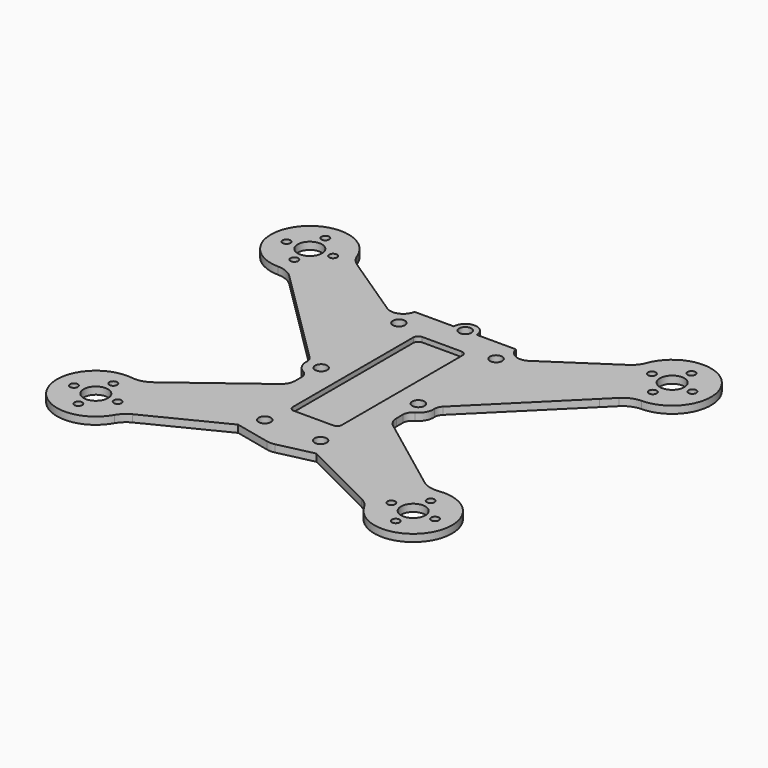
from build123d import *

# Parameters (mm, degrees)
F0_R     = 0.8
F0_R_2   = 2.5
F0_R_3   = 1.25
F1_DEPTH = 1.5
F3_DEPTH = 1


with BuildPart() as f1:
    # F0 (on Top) → F1 (new body)
    with BuildSketch(Plane.XY):
        with BuildLine():
            Line((-31.716832, 9.520675), (-13.730384, -8.327864))
            ThreePointArc((-13.730384, -8.327864), (-13.294515, -8.974629), (-13.139162, -9.738927))
            ThreePointArc((-13.139162, -9.738927), (-12.767146, -11.505125), (-11.486594, -12.777146))
            ThreePointArc((-11.486594, -12.777146), (-10.714692, -13.512731), (-10.430463, -14.540413))
            Line((-10.430463, -14.540413), (-10.430463, -16.13337))
            ThreePointArc((-10.430463, -16.13337), (-10.746412, -17.473471), (-11.62771, -18.531303))
            Line((-11.62771, -18.531303), (-15.493242, -21.437387))
            Line((-15.493242, -21.437387), (-27.909361, -30.771753))
            ThreePointArc((-27.909361, -30.771753), (-29.655032, -31.614116), (-31.58989, -31.729297))
            ThreePointArc((-31.58989, -31.729297), (-39.836032, -43.215069), (-25.70144, -43.582652))
            ThreePointArc((-25.70144, -43.582652), (-24.79371, -42.416415), (-23.584708, -41.566476))
            Line((-23.584708, -41.566476), (-8.058335, -33.788427))
            ThreePointArc((-8.058335, -33.788427), (-7.655382, -33.419748), (-7.506234, -32.894343))
            Line((-7.506234, -32.894343), (-7.506234, -32.096117))
            Line((-7.506234, -32.096117), (-0.518092, -33.32136))
            ThreePointArc((-0.518092, -33.32136), (0, -33.366435), (0.518092, -33.32136))
            Line((0.518092, -33.32136), (7.506234, -32.096117))
            Line((7.506234, -32.096117), (7.506234, -32.894343))
            ThreePointArc((7.506234, -32.894343), (7.655382, -33.419748), (8.058335, -33.788427))
            Line((8.058335, -33.788427), (23.584708, -41.566476))
            ThreePointArc((23.584708, -41.566476), (24.79371, -42.416415), (25.70144, -43.582652))
            ThreePointArc((25.70144, -43.582652), (39.836032, -43.215069), (31.58989, -31.729297))
            ThreePointArc((31.58989, -31.729297), (29.655032, -31.614116), (27.909361, -30.771753))
            Line((27.909361, -30.771753), (11.62771, -18.531303))
            ThreePointArc((11.62771, -18.531303), (10.746412, -17.473471), (10.430463, -16.13337))
            Line((10.430463, -16.13337), (10.430463, -14.540413))
            ThreePointArc((10.430463, -14.540413), (10.714692, -13.512731), (11.486594, -12.777146))
            ThreePointArc((11.486594, -12.777146), (12.767146, -11.505125), (13.139162, -9.738927))
            ThreePointArc((13.139162, -9.738927), (13.294515, -8.974629), (13.730384, -8.327864))
            Line((13.730384, -8.327864), (31.716832, 9.520675))
            Line((31.716832, 9.520675), (33.960373, 11.747013))
            ThreePointArc((33.960373, 11.747013), (35.545021, 12.807352), (37.411379, 13.197397))
            ThreePointArc((37.411379, 13.197397), (43.844593, 25.794573), (29.811857, 24.017664))
            ThreePointArc((29.811857, 24.017664), (29.04528, 22.667242), (27.901363, 21.617129))
            Line((27.901363, 21.617129), (24.304559, 19.22573))
            Line((24.304559, 19.22573), (14.596146, 12.77092))
            ThreePointArc((14.596146, 12.77092), (12.032551, 12.544056), (10.450405, 14.573909))
            Line((10.450405, 14.573909), (9.220249, 14.583025))
            Line((9.220249, 14.583025), (2.354764, 14.583025))
            ThreePointArc((2.354764, 14.583025), (0, 16.937789), (-2.354764, 14.583025))
            Line((-2.354764, 14.583025), (-9.220249, 14.583025))
            Line((-9.220249, 14.583025), (-10.450405, 14.573909))
            ThreePointArc((-10.450405, 14.573909), (-12.032551, 12.544056), (-14.596146, 12.77092))
            Line((-14.596146, 12.77092), (-24.304559, 19.22573))
            Line((-24.304559, 19.22573), (-27.901363, 21.617129))
            ThreePointArc((-27.901363, 21.617129), (-29.04528, 22.667242), (-29.811857, 24.017664))
            ThreePointArc((-29.811857, 24.017664), (-43.844593, 25.794573), (-37.411379, 13.197397))
            ThreePointArc((-37.411379, 13.197397), (-35.545021, 12.807352), (-33.960373, 11.747013))
            Line((-33.960373, 11.747013), (-31.716832, 9.520675))
        make_face()
        with Locations((-37.171396, -39.655857)):
            Circle(F0_R, mode=Mode.SUBTRACT)
        with Locations((-32.671396, -44.155857)):
            Circle(F0_R, mode=Mode.SUBTRACT)
        with Locations((-32.671396, -39.655857)):
            Circle(F0_R_2, mode=Mode.SUBTRACT)
        with Locations((-28.171396, -39.655857)):
            Circle(F0_R, mode=Mode.SUBTRACT)
        with Locations((-32.671396, -35.155857)):
            Circle(F0_R, mode=Mode.SUBTRACT)
        with Locations((-5.75, -29.833322)):
            Circle(F0_R_3, mode=Mode.SUBTRACT)
        with Locations((-10, -10)):
            Circle(F0_R_3, mode=Mode.SUBTRACT)
        with Locations((5.75, -29.833322)):
            Circle(F0_R_3, mode=Mode.SUBTRACT)
        with Locations((32.671396, -44.155857)):
            Circle(F0_R, mode=Mode.SUBTRACT)
        with Locations((28.171396, -39.655857)):
            Circle(F0_R, mode=Mode.SUBTRACT)
        with Locations((32.671396, -39.655857)):
            Circle(F0_R_2, mode=Mode.SUBTRACT)
        with Locations((37.171396, -39.655857)):
            Circle(F0_R, mode=Mode.SUBTRACT)
        with Locations((32.671396, -35.155857)):
            Circle(F0_R, mode=Mode.SUBTRACT)
        with Locations((10, -10)):
            Circle(F0_R_3, mode=Mode.SUBTRACT)
        with Locations((-36.905747, 16.713716)):
            Circle(F0_R, mode=Mode.SUBTRACT)
        with Locations((-41.780824, 20.804392)):
            Circle(F0_R, mode=Mode.SUBTRACT)
        with Locations((-37.297947, 21.196592)):
            Circle(F0_R_2, mode=Mode.SUBTRACT)
        with Locations((-37.690148, 25.679469)):
            Circle(F0_R, mode=Mode.SUBTRACT)
        with Locations((-32.815071, 21.588793)):
            Circle(F0_R, mode=Mode.SUBTRACT)
        with Locations((-10, 10)):
            Circle(F0_R_3, mode=Mode.SUBTRACT)
        with Locations((0, 14.583025)):
            Circle(F0_R_3, mode=Mode.SUBTRACT)
        with Locations((10, 10)):
            Circle(F0_R_3, mode=Mode.SUBTRACT)
        with Locations((36.905747, 16.713716)):
            Circle(F0_R, mode=Mode.SUBTRACT)
        with Locations((32.815071, 21.588793)):
            Circle(F0_R, mode=Mode.SUBTRACT)
        with Locations((37.297947, 21.196592)):
            Circle(F0_R_2, mode=Mode.SUBTRACT)
        with Locations((41.780824, 20.804392)):
            Circle(F0_R, mode=Mode.SUBTRACT)
        with Locations((37.690148, 25.679469)):
            Circle(F0_R, mode=Mode.SUBTRACT)
        with BuildLine():
            ThreePointArc((-7.506234, -32.894343), (-7.655382, -33.419748), (-8.058335, -33.788427))
            Line((-8.058335, -33.788427), (-0.790004, -35.437413))
            ThreePointArc((-0.790004, -35.437413), (0, -35.525903), (0.790004, -35.437413))
            Line((0.790004, -35.437413), (8.058335, -33.788427))
            ThreePointArc((8.058335, -33.788427), (7.655382, -33.419748), (7.506234, -32.894343))
            Line((7.506234, -32.894343), (7.506234, -32.096117))
            Line((7.506234, -32.096117), (0.518092, -33.32136))
            ThreePointArc((0.518092, -33.32136), (0, -33.366435), (-0.518092, -33.32136))
            Line((-0.518092, -33.32136), (-7.506234, -32.096117))
            Line((-7.506234, -32.096117), (-7.506234, -32.894343))
        make_face()
    extrude(amount=F1_DEPTH)

    # F2 (on face) → F3 (cut)
    with BuildSketch(Plane.XY.offset(1.5)):
        with BuildLine():
            Line((-4.045586, -24.454201), (4.045586, -24.454201))
            ThreePointArc((4.045586, -24.454201), (4.752693, -24.161307), (5.045586, -23.454201))
            Line((5.045586, -23.454201), (5.045586, 7.538364))
            ThreePointArc((5.045586, 7.538364), (4.752693, 8.24547), (4.045586, 8.538364))
            Line((4.045586, 8.538364), (-4.045586, 8.538364))
            ThreePointArc((-4.045586, 8.538364), (-4.752693, 8.24547), (-5.045586, 7.538364))
            Line((-5.045586, 7.538364), (-5.045586, -23.454201))
            ThreePointArc((-5.045586, -23.454201), (-4.752693, -24.161307), (-4.045586, -24.454201))
        make_face()
    extrude(amount=-F3_DEPTH, mode=Mode.SUBTRACT)


solid = f1.part
